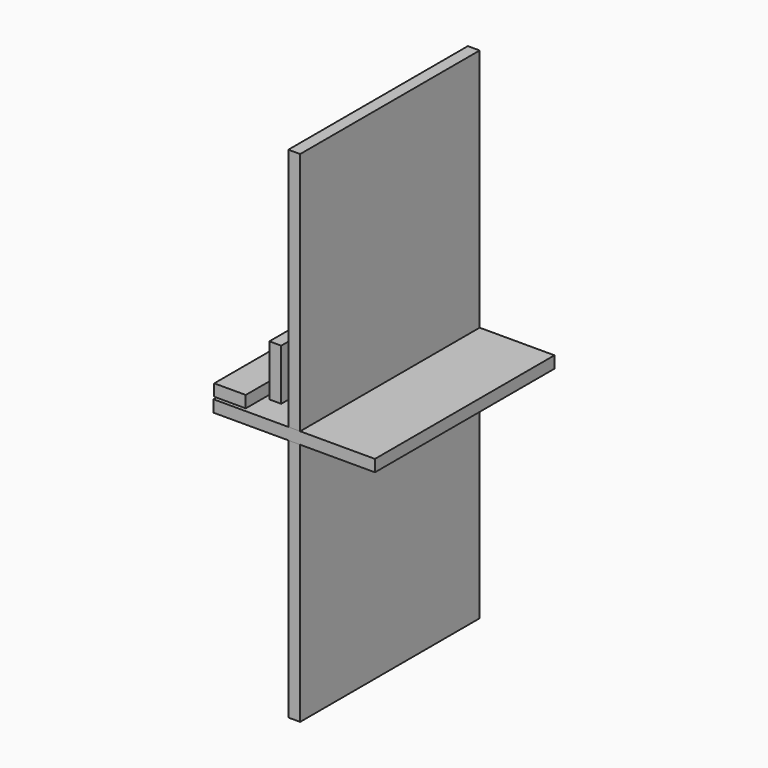
from build123d import *

# Parameters (mm, degrees)
F0_W     = 19.05
F0_H     = 806.45
F1_DEPTH = 361.95
F2_W     = 260.35
F2_H     = 19.05
F3_DEPTH = 361.95
F4_W     = 50.8
F4_H     = 19.05
F5_DEPTH = 361.95
F6_W     = 19.05
F6_H     = 82.55
F7_DEPTH = 361.95


with BuildPart() as f1:
    # F0 (on Front) → F1 (new body)
    with BuildSketch(Plane.XZ):
        Rectangle(F0_W, F0_H)
    extrude(amount=F1_DEPTH)


with BuildPart() as f3:
    # F2 (on Front) → F3 (new body)
    with BuildSketch(Plane.XZ):
        Rectangle(F2_W, F2_H)
    extrude(amount=F3_DEPTH)


with BuildPart() as f5:
    # F4 (on Front) → F5 (new body)
    with BuildSketch(Plane.XZ):
        with Locations((-103.654143, 23.02507)):
            Rectangle(F4_W, F4_H)
    extrude(amount=F5_DEPTH)


with BuildPart() as f7:
    # F6 (on Front) → F7 (new body)
    with BuildSketch(Plane.XZ):
        with Locations((-30.572268, 79.871871)):
            Rectangle(F6_W, F6_H)
    extrude(amount=F7_DEPTH)


solid = Compound([f1.part, f3.part, f5.part, f7.part])
